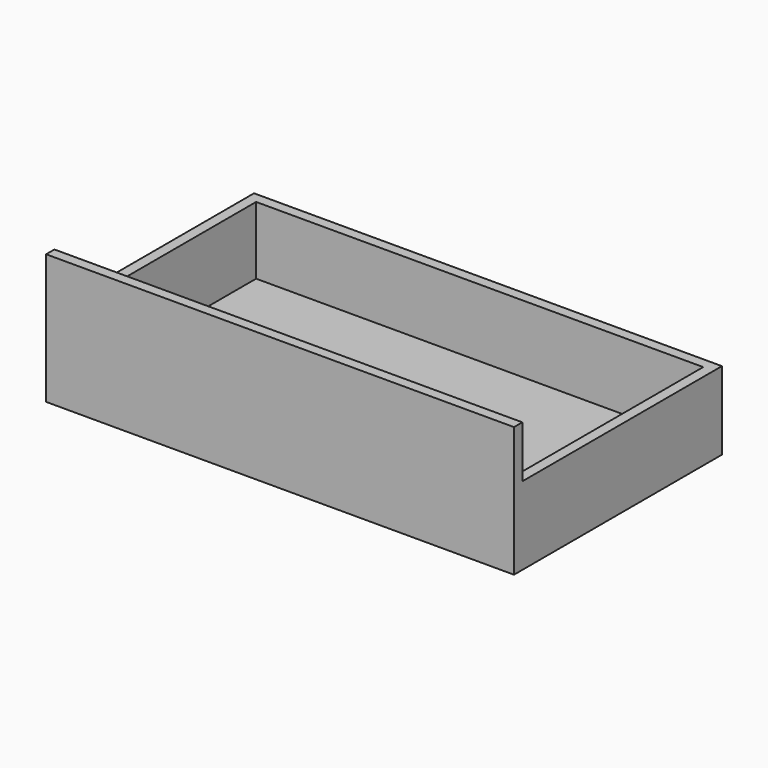
from build123d import *

# Parameters (mm, degrees)
F1_DEPTH = 150
F0_W     = 860
F0_H     = 460
F2_DEPTH = 20
F3_DEPTH = 250


with BuildPart() as f1:
    # F0 (on Top) → F1 (new body)
    with BuildSketch(Plane.XY):
        Polygon((430, -230), (450, -230), (450, 230), (450, 250), (-450, 250), (-450, -230), (-430, -230), (-430, 230), (430, 230), align=None)
    extrude(amount=F1_DEPTH)

    # F0 (on Top) → F2 (join)
    with BuildSketch(Plane.XY):
        Polygon((-450, -250), (450, -250), (450, -230), (430, -230), (-430, -230), (-450, -230), align=None)
        Polygon((430, -230), (450, -230), (450, 230), (450, 250), (-450, 250), (-450, -230), (-430, -230), (-430, 230), (430, 230), align=None)
        Rectangle(F0_W, F0_H)
    extrude(amount=F2_DEPTH)

    # F0 (on Top) → F3 (join)
    with BuildSketch(Plane.XY):
        Polygon((-450, -250), (450, -250), (450, -230), (430, -230), (-430, -230), (-450, -230), align=None)
    extrude(amount=F3_DEPTH)


solid = f1.part
